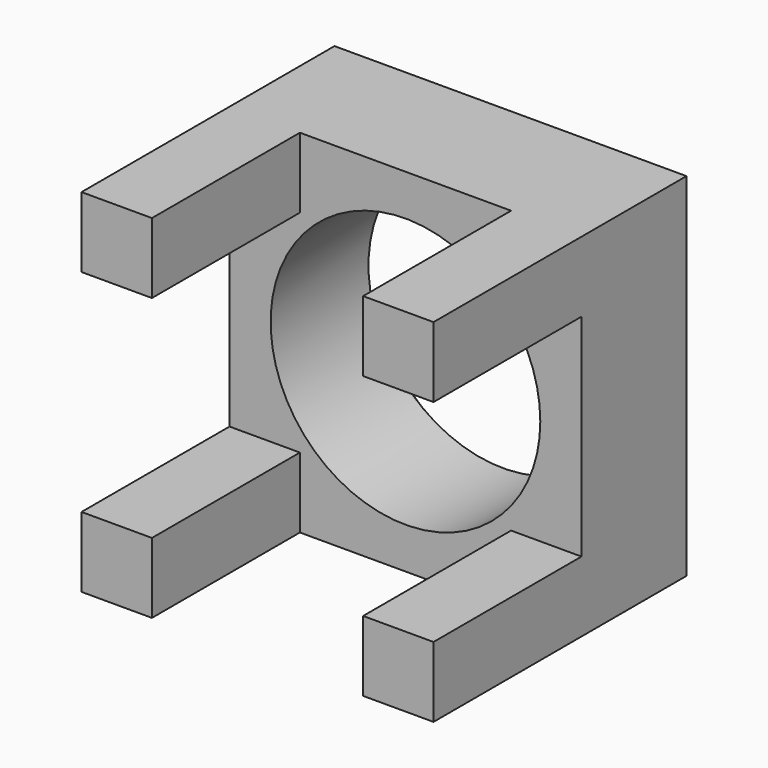
from build123d import *

# Parameters (mm, degrees)
F0_W     = 1498.6
F0_H     = 1498.6
F0_R     = 574.04
F1_DEPTH = 558.8
F2_W     = 299.72
F2_H     = 299.72
F3_DEPTH = 787.4
F4_SIZE  = 38.1


with BuildPart() as f1:
    # F0 (on Front) → F1 (new body)
    with BuildSketch(Plane.XZ):
        Rectangle(F0_W, F0_H)
        Circle(F0_R, mode=Mode.SUBTRACT)
    extrude(amount=F1_DEPTH)

    # F2 (on face) → F3 (join)
    with BuildSketch(Plane.XZ.offset(558.8)):
        with Locations((-599.44, 599.44)):
            Rectangle(F2_W, F2_H)
        with Locations((-599.44, -599.44)):
            Rectangle(F2_W, F2_H)
        with Locations((599.44, -599.44)):
            Rectangle(F2_W, F2_H)
        with Locations((599.44, 599.44)):
            Rectangle(F2_W, F2_H)
    extrude(amount=F3_DEPTH)

    # F4
    f4_edges = [f1.edges().sort_by_distance(p)[0] for p in [
        (-574.04, 0, 0),
    ]]
    chamfer(f4_edges, length=F4_SIZE)


solid = f1.part
